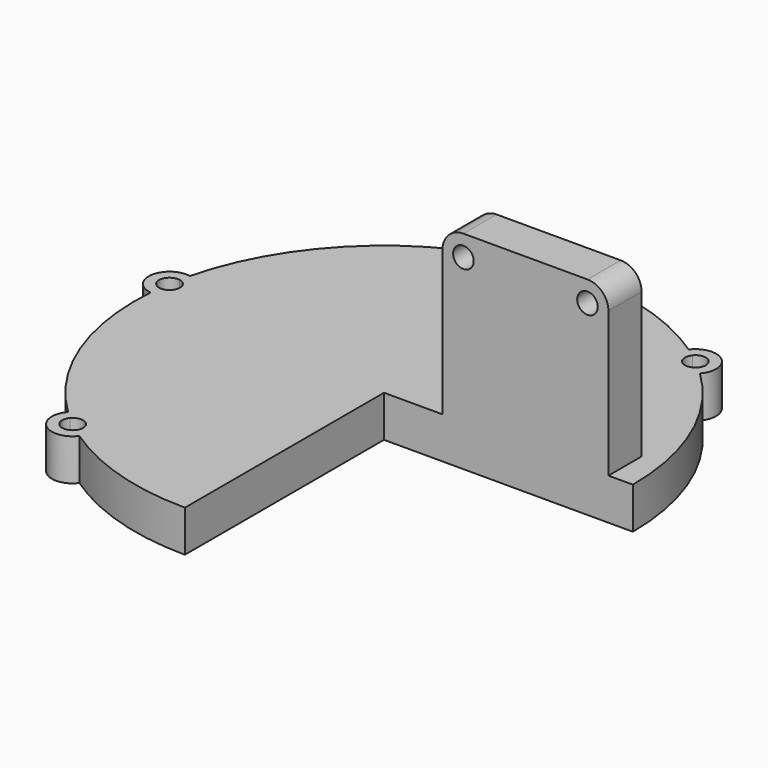
from build123d import *

# Parameters (mm, degrees)
F1_DEPTH = 3.175
F2_W     = 12.7
F2_H     = 3.175
F3_DEPTH = 12.7
F4_R     = 1.6002
F5_R     = 0.7874
F6_DEPTH = 19.377747


with BuildPart() as f1:
    # F0 (on Top) → F1 (new body)
    with BuildSketch(Plane.XY):
        with BuildLine():
            Line((0, 0), (19.05, 0))
            ThreePointArc((19.05, 0), (17.523524, 7.471855), (13.188727, 13.746271))
            ThreePointArc((13.188727, 13.746271), (12.901694, 14.016019), (12.609145, 14.279775))
            ThreePointArc((12.609145, 14.279775), (11.494472, 14.175188), (11.366501, 15.287418))
            ThreePointArc((11.366501, 15.287418), (11.047993, 15.519161), (10.724761, 15.744269))
            ThreePointArc((10.724761, 15.744269), (2.9926, 18.813475), (-5.310256, 18.294908))
            ThreePointArc((-5.310256, 18.294908), (-5.687382, 18.181204), (-6.062075, 18.059727))
            ThreePointArc((-6.062075, 18.059727), (-6.026834, 17.926523), (-6.01497, 17.789247))
            ThreePointArc((-6.01497, 17.789247), (-6.661272, 17.004068), (-7.556042, 17.487388))
            ThreePointArc((-7.556042, 17.487388), (-7.915991, 17.327423), (-8.272556, 17.16005))
            ThreePointArc((-8.272556, 17.16005), (-14.796647, 11.998405), (-18.498984, 4.548637))
            ThreePointArc((-18.498984, 4.548637), (-18.589076, 4.165185), (-18.67122, 3.779952))
            ThreePointArc((-18.67122, 3.779952), (-18.199481, 3.505602), (-18.013375, 2.9926))
            ThreePointArc((-18.013375, 2.9926), (-18.287692, 2.389514), (-18.922543, 2.199969))
            ThreePointArc((-18.922543, 2.199969), (-18.963984, 1.808262), (-18.997317, 1.415781))
            ThreePointArc((-18.997317, 1.415781), (-17.789247, -6.81507), (-13.188727, -13.746271))
            ThreePointArc((-13.188727, -13.746271), (-12.901694, -14.016019), (-12.609145, -14.279775))
            ThreePointArc((-12.609145, -14.279775), (-11.723172, -14.045377), (-11.198305, -14.796647))
            ThreePointArc((-11.198305, -14.796647), (-11.241521, -15.056044), (-11.366501, -15.287418))
            ThreePointArc((-11.366501, -15.287418), (-11.047993, -15.519161), (-10.724761, -15.744269))
            ThreePointArc((-10.724761, -15.744269), (-5.611336, -18.204818), (0, -19.05))
            Line((0, -19.05), (0, 0))
        make_face()
        with BuildLine():
            ThreePointArc((12.609145, 14.279775), (12.901694, 14.016019), (13.188727, 13.746271))
            ThreePointArc((13.188727, 13.746271), (12.998272, 16.029701), (10.724761, 15.744269))
            ThreePointArc((10.724761, 15.744269), (11.047993, 15.519161), (11.366501, 15.287418))
            ThreePointArc((11.366501, 15.287418), (12.257802, 15.553531), (12.798505, 14.796647))
            ThreePointArc((12.798505, 14.796647), (12.749675, 14.521413), (12.609145, 14.279775))
        make_face()
        with BuildLine():
            ThreePointArc((-6.062075, 18.059727), (-5.687382, 18.181204), (-5.310256, 18.294908))
            ThreePointArc((-5.310256, 18.294908), (-7.382992, 19.271685), (-8.272556, 17.16005))
            ThreePointArc((-8.272556, 17.16005), (-7.915991, 17.327423), (-7.556042, 17.487388))
            ThreePointArc((-7.556042, 17.487388), (-7.101303, 18.536396), (-6.062075, 18.059727))
        make_face()
        with BuildLine():
            ThreePointArc((-13.188727, -13.746271), (-12.998272, -16.029701), (-10.724761, -15.744269))
            ThreePointArc((-10.724761, -15.744269), (-11.047993, -15.519161), (-11.366501, -15.287418))
            ThreePointArc((-11.366501, -15.287418), (-12.502338, -15.418106), (-12.609145, -14.279775))
            ThreePointArc((-12.609145, -14.279775), (-12.901694, -14.016019), (-13.188727, -13.746271))
        make_face()
        with BuildLine():
            ThreePointArc((-18.67122, 3.779952), (-18.589076, 4.165185), (-18.498984, 4.548637))
            ThreePointArc((-18.498984, 4.548637), (-20.381265, 3.241984), (-18.997317, 1.415781))
            ThreePointArc((-18.997317, 1.415781), (-18.963984, 1.808262), (-18.922543, 2.199969))
            ThreePointArc((-18.922543, 2.199969), (-19.603641, 3.118289), (-18.67122, 3.779952))
        make_face()
    extrude(amount=F1_DEPTH)

    # F2 (on face) → F3 (join)
    with BuildSketch(Plane.XY.offset(3.175)):
        with Locations((10.828172, 1.5875)):
            Rectangle(F2_W, F2_H)
    extrude(amount=F3_DEPTH)

    # F4
    f4_edges = [f1.edges().sort_by_distance(p)[0] for p in [
        (17.178172, 1.5875, 15.875),
        (4.478172, 1.5875, 15.875),
    ]]
    fillet(f4_edges, radius=F4_R)

    # F5 (on face) → F6 (cut, through all)
    with BuildSketch(Plane.XZ):
        with Locations((15.577972, 14.2748)):
            Circle(F5_R)
        with Locations((6.078372, 14.2748)):
            Circle(F5_R)
    extrude(amount=-F6_DEPTH, mode=Mode.SUBTRACT)


solid = f1.part
